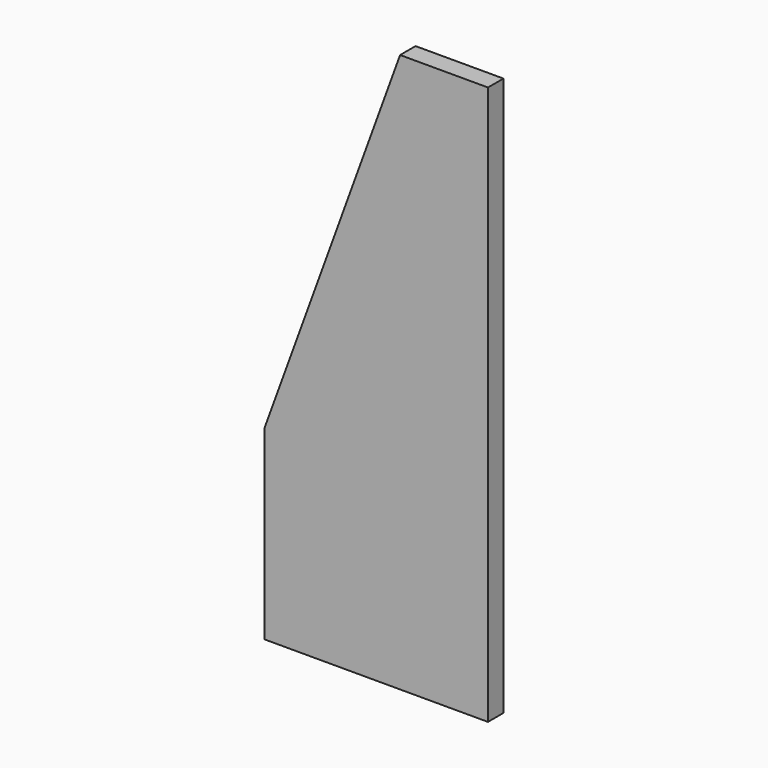
from build123d import *

# Parameters (mm, degrees)
PAD_DEPTH = 6.5


with BuildPart() as part:
    # Sketch → Pad (new body, symmetric)
    with BuildSketch(Plane.XZ):
        Polygon((0, 0), (150, 0), (150, 375), (90.992559, 375), (0, 125), align=None)
    extrude(amount=PAD_DEPTH, both=True)


solid = part.part
